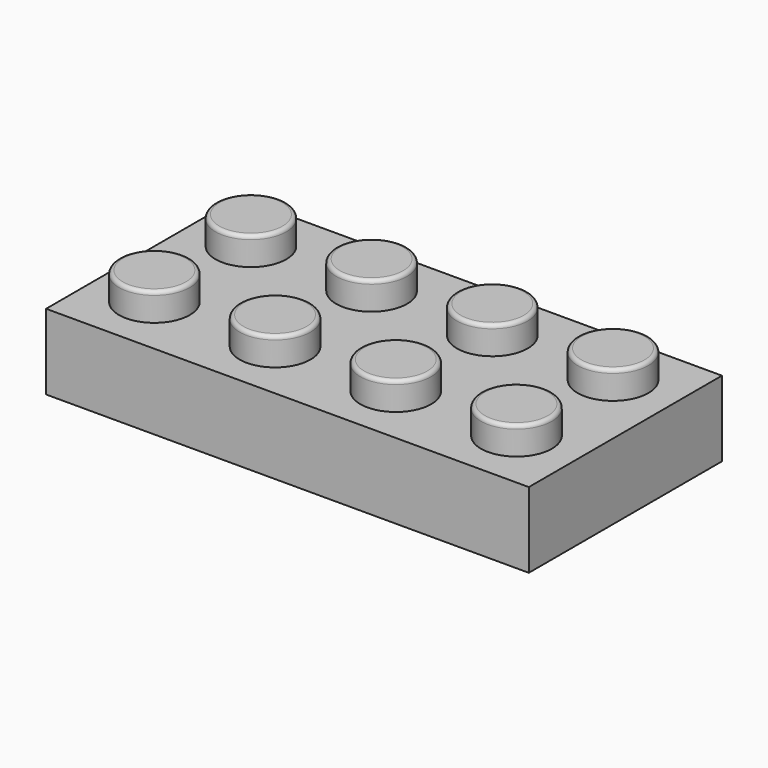
from build123d import *

# Parameters (mm, degrees)
F0_W     = 32.004
F0_H     = 16.002
F1_DEPTH = 5.0038
F2_R     = 2.3495
F3_DEPTH = 1.8542
F4_R     = 0.254
F5_W     = 29.0068
F5_H     = 13.0048
F5_R     = 3.2512
F5_R_2   = 2.4003
F6_DEPTH = 3.5052


with BuildPart() as f1:
    # F0 (on Top) → F1 (new body)
    with BuildSketch(Plane.XY):
        with Locations((16.002, 8.001)):
            Rectangle(F0_W, F0_H)
    extrude(amount=F1_DEPTH)

    # F2 (on face) → F3 (join)
    with BuildSketch(Plane.XY.offset(5.0038)):
        with Locations((3.8989, 12.1031)):
            Circle(F2_R)
        with Locations((3.8989, 4.1021)):
            Circle(F2_R)
        with Locations((11.8999, 12.1031)):
            Circle(F2_R)
        with Locations((11.8999, 4.1021)):
            Circle(F2_R)
        with Locations((19.9009, 12.1031)):
            Circle(F2_R)
        with Locations((19.9009, 4.1021)):
            Circle(F2_R)
        with Locations((27.9019, 12.1031)):
            Circle(F2_R)
        with Locations((27.9019, 4.1021)):
            Circle(F2_R)
    extrude(amount=F3_DEPTH)

    # F4
    f4_edges = [f1.edges().sort_by_distance(p)[0] for p in [
        (1.5494, 12.1031, 6.858),
        (9.5504, 12.1031, 6.858),
        (17.5514, 12.1031, 6.858),
        (25.5524, 12.1031, 6.858),
        (25.5524, 4.1021, 6.858),
        (17.5514, 4.1021, 6.858),
        (9.5504, 4.1021, 6.858),
        (1.5494, 4.1021, 6.858),
    ]]
    fillet(f4_edges, radius=F4_R)

    # F5 (on face) → F6 (cut)
    with BuildSketch(Plane(origin=(0, 0, 0), x_dir=(1, 0, 0), z_dir=(0, 0, -1))):
        with Locations((16.002, -8.001)):
            Rectangle(F5_W, F5_H)
        with Locations((8.001, -8.001)):
            Circle(F5_R, mode=Mode.SUBTRACT)
        with Locations((16.002, -8.001)):
            Circle(F5_R, mode=Mode.SUBTRACT)
        with Locations((24.003, -8.001)):
            Circle(F5_R, mode=Mode.SUBTRACT)
        with Locations((8.001, -8.001)):
            Circle(F5_R_2)
        with Locations((16.002, -8.001)):
            Circle(F5_R_2)
        with Locations((24.003, -8.001)):
            Circle(F5_R_2)
    extrude(amount=-F6_DEPTH, mode=Mode.SUBTRACT)


solid = f1.part
